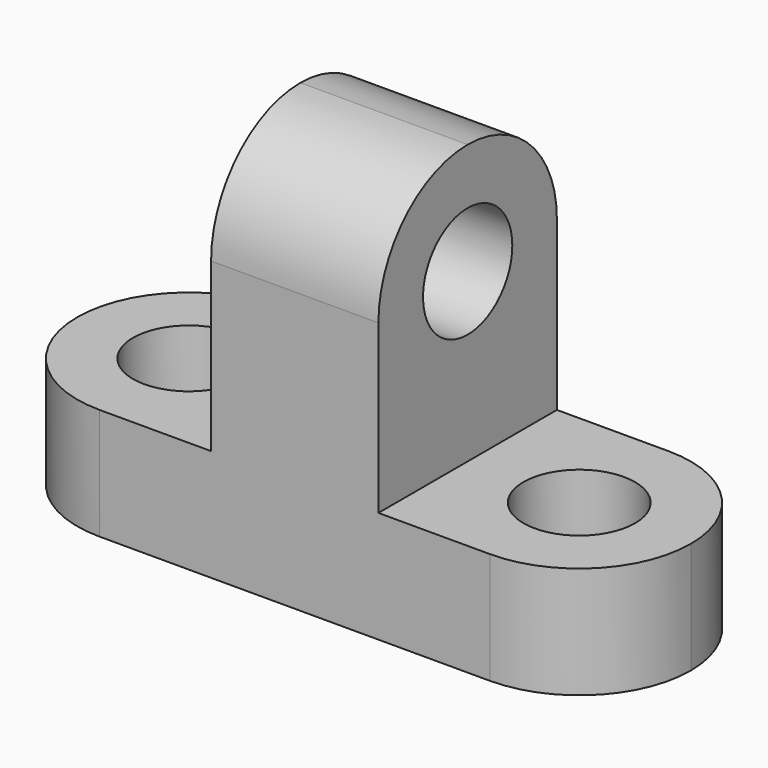
from build123d import *

# Parameters (mm, degrees)
F0_W     = 69.85
F0_H     = 44.45
F1_DEPTH = 25.4
F2_W     = 25.4
F2_H     = 31.75
F3_DEPTH = 25.4
F4_R     = 6.35
F5_DEPTH = 12.7
F6_R     = 6.35
F7_DEPTH = 12.7
F8_R     = 6.35
F9_DEPTH = 25.4


with BuildPart() as f1:
    # F0 (on Front) → F1 (new body)
    with BuildSketch(Plane.XZ):
        with Locations((34.925, 22.225)):
            Rectangle(F0_W, F0_H)
    extrude(amount=F1_DEPTH)

    # F2 (on face) → F3 (cut)
    with BuildSketch(Plane.XZ.offset(25.4)):
        with Locations((12.7, 28.575)):
            Rectangle(F2_W, F2_H)
        with Locations((57.15, 28.575)):
            Rectangle(F2_W, F2_H)
    extrude(amount=-F3_DEPTH, mode=Mode.SUBTRACT)

    # F4 (on face) → F5 (cut)
    with BuildSketch(Plane.XY.offset(12.7)):
        with Locations((12.7, -12.7)):
            Circle(F4_R)
        with BuildLine():
            ThreePointArc((0, -12.7), (3.7197438789, -3.7197438789), (12.7, 0))
            Line((12.7, 0), (0, 0))
            Line((0, 0), (0, -12.7))
        make_face()
        with BuildLine():
            ThreePointArc((12.7, -25.4), (3.7197438789, -21.6802561211), (0, -12.7))
            Line((0, -12.7), (0, -25.4))
            Line((0, -25.4), (12.7, -25.4))
        make_face()
    extrude(amount=-F5_DEPTH, mode=Mode.SUBTRACT)

    # F6 (on face) → F7 (cut)
    with BuildSketch(Plane.XY.offset(12.7)):
        with Locations((57.15, -12.7)):
            Circle(F6_R)
        with BuildLine():
            ThreePointArc((57.15, 0), (66.1302561211, -3.7197438789), (69.85, -12.7))
            Line((69.85, -12.7), (69.85, 0))
            Line((69.85, 0), (57.15, 0))
        make_face()
        with BuildLine():
            ThreePointArc((69.85, -12.7), (66.1302561211, -21.6802561211), (57.15, -25.4))
            Line((57.15, -25.4), (69.85, -25.4))
            Line((69.85, -25.4), (69.85, -12.7))
        make_face()
    extrude(amount=-F7_DEPTH, mode=Mode.SUBTRACT)

    # F8 (on face) → F9 (cut)
    with BuildSketch(Plane.YZ.offset(44.45)):
        with Locations((-12.7, 31.75)):
            Circle(F8_R)
        with BuildLine():
            ThreePointArc((-25.4, 31.75), (-21.6802561211, 40.7302561211), (-12.7, 44.45))
            Line((-12.7, 44.45), (-25.4, 44.45))
            Line((-25.4, 44.45), (-25.4, 31.75))
        make_face()
        with BuildLine():
            ThreePointArc((-12.7, 44.45), (-3.7197438789, 40.7302561211), (0, 31.75))
            Line((0, 31.75), (0, 44.45))
            Line((0, 44.45), (-12.7, 44.45))
        make_face()
    extrude(amount=-F9_DEPTH, mode=Mode.SUBTRACT)


solid = f1.part
